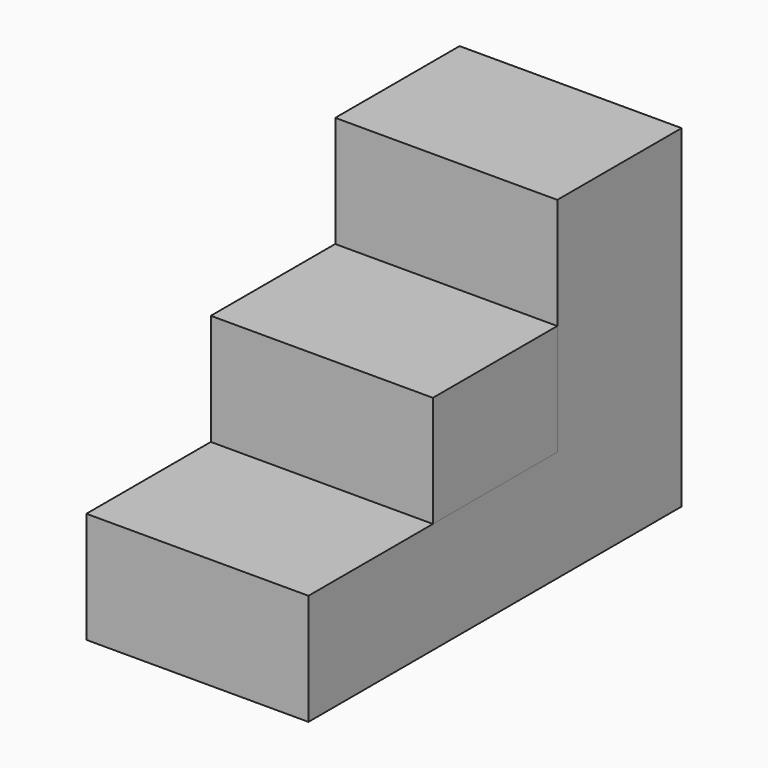
from build123d import *

# Parameters (mm, degrees)
F0_W     = 1270
F0_H     = 635
F1_DEPTH = 2667
F3_W     = 1269.938533
F3_H     = 889
F4_DEPTH = 635
F5_W     = 1269.78067
F5_H     = 888.451044
F6_DEPTH = 1270


with BuildPart() as f1:
    # F0 (on Front) → F1 (new body)
    with BuildSketch(Plane.XZ):
        with Locations((481.830696, 231.570345)):
            Rectangle(F0_W, F0_H)
    extrude(amount=-F1_DEPTH)

    # F3 (on face) → F4 (join)
    with BuildSketch(Plane.XY.offset(549.070345)):
        with Locations((481.861429, 1333.766074)):
            Rectangle(F3_W, F3_H)
    extrude(amount=F4_DEPTH)

    # F5 (on face) → F6 (join)
    with BuildSketch(Plane.XY.offset(549.070345)):
        with Locations((481.940361, 2222.774478)):
            Rectangle(F5_W, F5_H)
    extrude(amount=F6_DEPTH)


solid = f1.part
